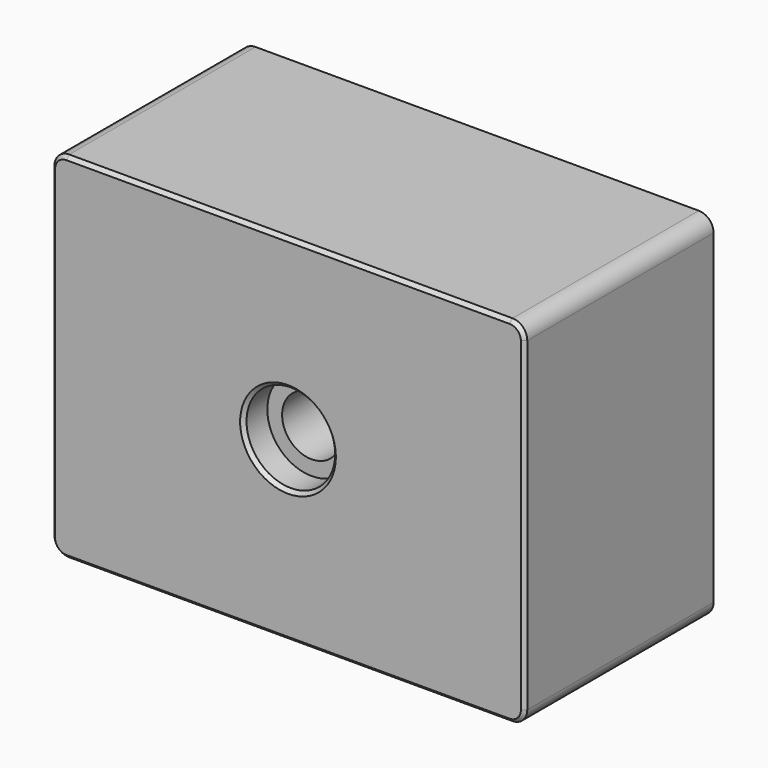
from build123d import *

# Parameters (mm, degrees)
F0_W           = 101.6
F0_H           = 76.2
F1_DEPTH       = 50.8
F3_D           = 12.7
F3_CBORE_D     = 19.05
F3_CBORE_DEPTH = 6.35
F4_R           = 3.175
F5_SIZE        = 0.762


with BuildPart() as f1:
    # F0 (on Front) → F1 (new body)
    with BuildSketch(Plane.XZ):
        with Locations((4.1500981897, -1.8619502484)):
            Rectangle(F0_W, F0_H)
    extrude(amount=-F1_DEPTH)

    # F3 (through all)
    with Locations(Plane.XZ):
        with Locations((4.1500981897, -1.8619502484)):
            CounterBoreHole(F3_D / 2, F3_CBORE_D / 2, F3_CBORE_DEPTH)

    # F4
    f4_edges = [f1.edges().sort_by_distance(p)[0] for p in [
        (54.950098, 25.4, 36.23805),
        (-46.649902, 25.4, 36.23805),
        (54.950098, 25.4, -39.96195),
        (-46.649902, 25.4, -39.96195),
    ]]
    fillet(f4_edges, radius=F4_R)

    # F5
    f5_edges = [f1.edges().sort_by_distance(p)[0] for p in [
        (4.150098, 0, -39.96195),
        (-45.719966, 0, -39.032014),
        (54.020162, 0, -39.032014),
        (-46.649902, 0, -1.86195),
        (54.950098, 0, -1.86195),
        (-45.719966, 0, 35.308114),
        (54.020162, 0, 35.308114),
        (4.150098, 0, 36.23805),
        (-5.374902, 0, -1.86195),
    ]]
    chamfer(f5_edges, length=F5_SIZE)


solid = f1.part
